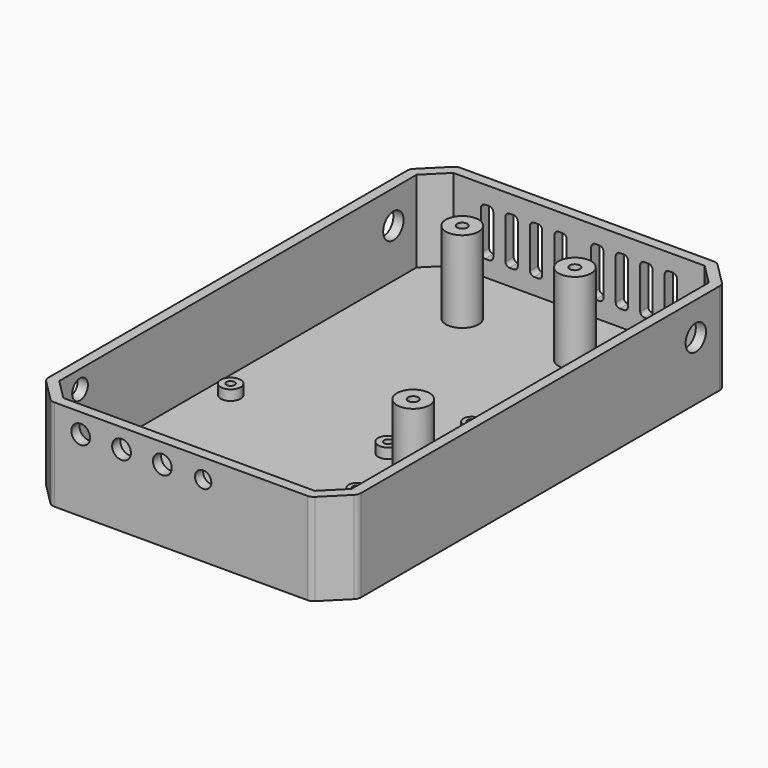
from build123d import *

# Parameters (mm, degrees)
F4_DEPTH  = 3.175
F5_DEPTH  = 25.4
F6_R      = 3.1
F6_R_2    = 2.54
F6_W      = 19.05
F6_H      = 3.175
F0_R      = 3.1
F0_R_2    = 1.375
F7_DEPTH  = 3.175
F8_R      = 1.27
F9_DEPTH  = 5.08
F10_R     = 3.048
F11_DEPTH = 3.175
F12_R     = 3.96875
F13_DEPTH = 97.276
F15_DEPTH = 3.175
F16_R     = 2.921
F16_R_2   = 2.54
F17_DEPTH = 3.175
F18_R     = 2.54
F19_R     = 5.08
F19_R_2   = 1.5875
F20_DEPTH = 25.4


with BuildPart() as f4:
    # F3 (on Top) → F4 (new body)
    with BuildSketch(Plane.XY):
        Polygon((-26.1401280605, 113.175), (-34.35, 104.9651280605), (-34.35, -36.6401280605), (-26.1401280605, -44.85), (54.7151280605, -44.85), (62.925, -36.6401280605), (62.925, 104.9651280605), (54.7151280605, 113.175), align=None)
        Polygon((-31.175, 103.65), (-24.825, 110), (53.4, 110), (59.75, 103.65), (59.75, -35.325), (53.4, -41.675), (-24.825, -41.675), (-31.175, -35.325), align=None, mode=Mode.SUBTRACT)
        Polygon((53.4, 110), (-24.825, 110), (-31.175, 103.65), (-31.175, -35.325), (-24.825, -41.675), (53.4, -41.675), (59.75, -35.325), (59.75, 103.65), align=None)
    extrude(amount=-F4_DEPTH)

    # F3 (on Top) → F5 (join)
    with BuildSketch(Plane.XY):
        Polygon((-26.1401280605, 113.175), (-34.35, 104.9651280605), (-34.35, -36.6401280605), (-26.1401280605, -44.85), (54.7151280605, -44.85), (62.925, -36.6401280605), (62.925, 104.9651280605), (54.7151280605, 113.175), align=None)
        Polygon((-31.175, 103.65), (-24.825, 110), (53.4, 110), (59.75, 103.65), (59.75, -35.325), (53.4, -41.675), (-24.825, -41.675), (-31.175, -35.325), align=None, mode=Mode.SUBTRACT)
    extrude(amount=F5_DEPTH)

    # F6 (on face) + F0 (on Top) → F7 (join)
    with BuildSketch(Plane.XY):
        with Locations((-24.5, 23)):
            Circle(F6_R)
        with Locations((24.5, 23)):
            Circle(F6_R)
        with Locations((-24.5, -35)):
            Circle(F6_R)
        with Locations((24.5, -35)):
            Circle(F6_R)
        with Locations((33.715, 43.96)):
            Circle(F6_R_2)
        with Locations((48.955, 43.96)):
            Circle(F6_R_2)
        with Locations((33.715, 22.37)):
            Circle(F6_R_2)
        with Locations((48.955, 22.37)):
            Circle(F6_R_2)
        with Locations((33.715, -0.654)):
            Circle(F6_R_2)
        with Locations((54.035, -0.654)):
            Circle(F6_R_2)
        with Locations((43.875, -30.5625)):
            Rectangle(F6_W, F6_H)
    with BuildSketch(Plane.XY):
        with Locations((-24.5, 23)):
            Circle(F0_R)
        with Locations((-24.5, 23)):
            Circle(F0_R_2, mode=Mode.SUBTRACT)
    extrude(amount=F7_DEPTH)

    # F8 (on face) → F9 (cut)
    with BuildSketch(Plane.XY.offset(3.175)):
        with Locations((-24.5, 23)):
            Circle(F8_R)
        with Locations((24.5, 23)):
            Circle(F8_R)
        with Locations((24.5, -35)):
            Circle(F8_R)
        with Locations((-24.5, -35)):
            Circle(F8_R)
        with Locations((33.715, 43.96)):
            Circle(F8_R)
        with Locations((48.955, 43.96)):
            Circle(F8_R)
        with Locations((33.715, 22.37)):
            Circle(F8_R)
        with Locations((48.955, 22.37)):
            Circle(F8_R)
        with Locations((33.715, -0.654)):
            Circle(F8_R)
        with Locations((54.035, -0.654)):
            Circle(F8_R)
    extrude(amount=-F9_DEPTH, mode=Mode.SUBTRACT)

    # F10 (on face) → F11 (cut, through all)
    with BuildSketch(Plane(origin=(-34.35, 0, 0), x_dir=(0, -1, 0), z_dir=(-1, 0, 0))):
        with Locations((27.2421280605, 19.812)):
            Circle(F10_R)
    extrude(amount=-F11_DEPTH, mode=Mode.SUBTRACT)

    # F12 (on face) → F13 (cut, through all)
    with BuildSketch(Plane(origin=(-34.35, 0, 0), x_dir=(0, -1, 0), z_dir=(-1, 0, 0))):
        with Locations((-94.6463780605, 15.08125)):
            Circle(F12_R)
    extrude(amount=-F13_DEPTH, mode=Mode.SUBTRACT)

    # F14 (on face) → F15 (cut, through all)
    with BuildSketch(Plane(origin=(0, 113.175, 0), x_dir=(-1, 0, 0), z_dir=(0, 1, 0))):
        with BuildLine():
            Line((-19.3675, 20.32), (-20.6375, 20.32))
            ThreePointArc((-20.6375, 20.32), (-21.5355256121, 19.9480256121), (-21.9075, 19.05))
            Line((-21.9075, 19.05), (-21.9075, 6.35))
            ThreePointArc((-21.9075, 6.35), (-21.5355256121, 5.4519743879), (-20.6375, 5.08))
            Line((-20.6375, 5.08), (-19.3675, 5.08))
            ThreePointArc((-19.3675, 5.08), (-18.4694743879, 5.4519743879), (-18.0975, 6.35))
            Line((-18.0975, 6.35), (-18.0975, 19.05))
            ThreePointArc((-18.0975, 19.05), (-18.4694743879, 19.9480256121), (-19.3675, 20.32))
        make_face()
        with BuildLine():
            Line((-25.7175, 6.35), (-25.7175, 19.05))
            ThreePointArc((-25.7175, 19.05), (-26.0894743879, 19.9480256121), (-26.9875, 20.32))
            Line((-26.9875, 20.32), (-28.2575, 20.32))
            ThreePointArc((-28.2575, 20.32), (-29.1555256121, 19.9480256121), (-29.5275, 19.05))
            Line((-29.5275, 19.05), (-29.5275, 6.35))
            ThreePointArc((-29.5275, 6.35), (-29.1555256121, 5.4519743879), (-28.2575, 5.08))
            Line((-28.2575, 5.08), (-26.9875, 5.08))
            ThreePointArc((-26.9875, 5.08), (-26.0894743879, 5.4519743879), (-25.7175, 6.35))
        make_face()
        with BuildLine():
            Line((-33.3375, 6.35), (-33.3375, 19.05))
            ThreePointArc((-33.3375, 19.05), (-33.7094743879, 19.9480256121), (-34.6075, 20.32))
            Line((-34.6075, 20.32), (-35.8775, 20.32))
            ThreePointArc((-35.8775, 20.32), (-36.7755256121, 19.9480256121), (-37.1475, 19.05))
            Line((-37.1475, 19.05), (-37.1475, 6.35))
            ThreePointArc((-37.1475, 6.35), (-36.7755256121, 5.4519743879), (-35.8775, 5.08))
            Line((-35.8775, 5.08), (-34.6075, 5.08))
            ThreePointArc((-34.6075, 5.08), (-33.7094743879, 5.4519743879), (-33.3375, 6.35))
        make_face()
        with BuildLine():
            Line((-40.9575, 6.35), (-40.9575, 19.05))
            ThreePointArc((-40.9575, 19.05), (-41.3294743879, 19.9480256121), (-42.2275, 20.32))
            Line((-42.2275, 20.32), (-43.4975, 20.32))
            ThreePointArc((-43.4975, 20.32), (-44.3955256121, 19.9480256121), (-44.7675, 19.05))
            Line((-44.7675, 19.05), (-44.7675, 6.35))
            ThreePointArc((-44.7675, 6.35), (-44.3955256121, 5.4519743879), (-43.4975, 5.08))
            Line((-43.4975, 5.08), (-42.2275, 5.08))
            ThreePointArc((-42.2275, 5.08), (-41.3294743879, 5.4519743879), (-40.9575, 6.35))
        make_face()
        with BuildLine():
            Line((-7.9375, 19.9480256121), (-9.2075, 19.9480256121))
            ThreePointArc((-9.2075, 19.9480256121), (-10.1055256121, 19.5760512242), (-10.4775, 18.6780256121))
            Line((-10.4775, 18.6780256121), (-10.4775, 6.35))
            ThreePointArc((-10.4775, 6.35), (-10.1055256121, 5.4519743879), (-9.2075, 5.08))
            Line((-9.2075, 5.08), (-7.9375, 5.08))
            ThreePointArc((-7.9375, 5.08), (-7.0394743879, 5.4519743879), (-6.6675, 6.35))
            Line((-6.6675, 6.35), (-6.6675, 18.6780256121))
            ThreePointArc((-6.6675, 18.6780256121), (-7.0394743879, 19.5760512242), (-7.9375, 19.9480256121))
        make_face()
        with BuildLine():
            ThreePointArc((-1.5875, 19.9480256121), (-2.4855256121, 19.5760512242), (-2.8575, 18.6780256121))
            Line((-2.8575, 18.6780256121), (-2.8575, 6.35))
            ThreePointArc((-2.8575, 6.35), (-2.4855256121, 5.4519743879), (-1.5875, 5.08))
            Line((-1.5875, 5.08), (-0.3175, 5.08))
            ThreePointArc((-0.3175, 5.08), (0.5805256121, 5.4519743879), (0.9525, 6.35))
            Line((0.9525, 6.35), (0.9525, 18.6780256121))
            ThreePointArc((0.9525, 18.6780256121), (0.5805256121, 19.5760512242), (-0.3175, 19.9480256121))
            Line((-0.3175, 19.9480256121), (-1.5875, 19.9480256121))
        make_face()
        with BuildLine():
            ThreePointArc((6.0325, 19.9480256121), (5.1344743879, 19.5760512242), (4.7625, 18.6780256121))
            Line((4.7625, 18.6780256121), (4.7625, 6.35))
            ThreePointArc((4.7625, 6.35), (5.1344743879, 5.4519743879), (6.0325, 5.08))
            Line((6.0325, 5.08), (7.3025, 5.08))
            ThreePointArc((7.3025, 5.08), (8.2005256121, 5.4519743879), (8.5725, 6.35))
            Line((8.5725, 6.35), (8.5725, 18.6780256121))
            ThreePointArc((8.5725, 18.6780256121), (8.2005256121, 19.5760512242), (7.3025, 19.9480256121))
            Line((7.3025, 19.9480256121), (6.0325, 19.9480256121))
        make_face()
        with BuildLine():
            ThreePointArc((13.6525, 19.9480256121), (12.7544743879, 19.5760512242), (12.3825, 18.6780256121))
            Line((12.3825, 18.6780256121), (12.3825, 6.35))
            ThreePointArc((12.3825, 6.35), (12.7544743879, 5.4519743879), (13.6525, 5.08))
            Line((13.6525, 5.08), (14.9225, 5.08))
            ThreePointArc((14.9225, 5.08), (15.8205256121, 5.4519743879), (16.1925, 6.35))
            Line((16.1925, 6.35), (16.1925, 18.6780256121))
            ThreePointArc((16.1925, 18.6780256121), (15.8205256121, 19.5760512242), (14.9225, 19.9480256121))
            Line((14.9225, 19.9480256121), (13.6525, 19.9480256121))
        make_face()
    extrude(amount=-F15_DEPTH, mode=Mode.SUBTRACT)

    # F16 (on face) → F17 (cut, through all)
    with BuildSketch(Plane.XZ.offset(44.85)):
        with Locations((-16.8691280605, 19.304)):
            Circle(F16_R)
        with Locations((-4.1691280605, 19.304)):
            Circle(F16_R)
        with Locations((8.5308719395, 19.304)):
            Circle(F16_R)
        with Locations((21.2308719395, 19.304)):
            Circle(F16_R_2)
    extrude(amount=-F17_DEPTH, mode=Mode.SUBTRACT)

    # F18
    f18_edges = [f4.edges().sort_by_distance(p)[0] for p in [
        (62.925, -36.640128, 11.1125),
        (54.715128, -44.85, 11.1125),
        (62.925, 104.965128, 11.1125),
        (54.715128, 113.175, 11.1125),
        (-26.140128, 113.175, 11.1125),
        (-34.35, 104.965128, 11.1125),
        (-34.35, -36.640128, 11.1125),
        (-26.140128, -44.85, 11.1125),
    ]]
    fillet(f18_edges, radius=F18_R)

    # F19 (on face) → F20 (join)
    with BuildSketch(Plane.XY):
        with Locations((-5.775, 89.68)):
            Circle(F19_R)
        with Locations((-5.775, 89.68)):
            Circle(F19_R_2, mode=Mode.SUBTRACT)
        with Locations((29.27, 89.68)):
            Circle(F19_R)
        with Locations((29.27, 89.68)):
            Circle(F19_R_2, mode=Mode.SUBTRACT)
        with Locations((41.97, 10.94)):
            Circle(F19_R)
        with Locations((41.97, 10.94)):
            Circle(F19_R_2, mode=Mode.SUBTRACT)
    extrude(amount=F20_DEPTH)


solid = f4.part
